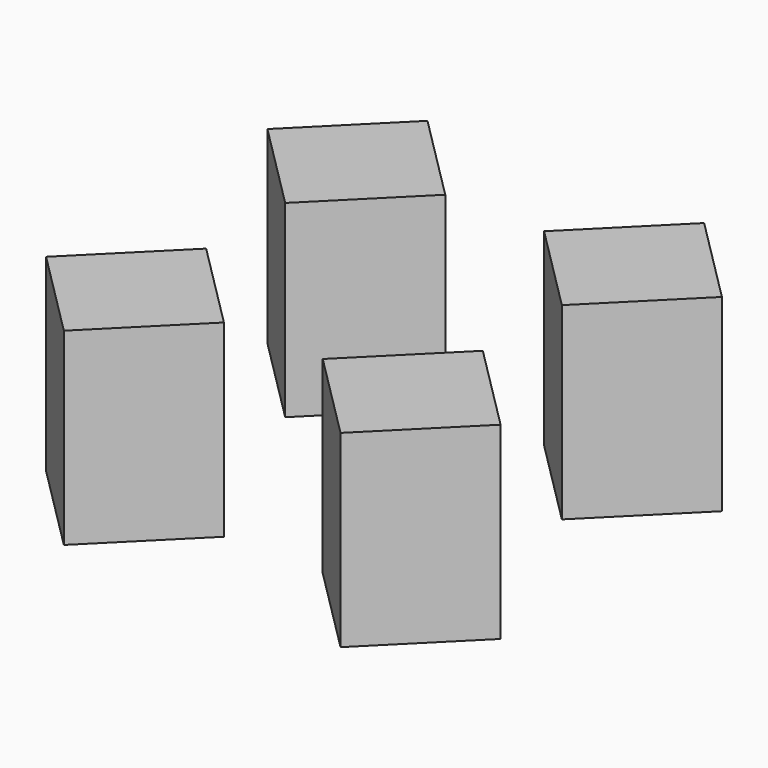
from build123d import *

# Parameters (mm, degrees)
BOX057_W               = 10
BOX057_H               = 10
BOX057_DEPTH           = 15
BOX057_PLACEMENT_ANGLE = 45
BOX056_W               = 10
BOX056_H               = 10
BOX056_DEPTH           = 15
BOX056_PLACEMENT_ANGLE = 45
BOX055_W               = 10
BOX055_H               = 10
BOX055_DEPTH           = 15
BOX055_PLACEMENT_ANGLE = 45
BOX054_W               = 10
BOX054_H               = 10
BOX054_DEPTH           = 15
BOX054_PLACEMENT_ANGLE = 45


with BuildPart() as cube057:
    # Box057 → Box057 (new body)
    with BuildSketch(Plane.XY):
        with Locations((5, 5)):
            Rectangle(BOX057_W, BOX057_H)
    extrude(amount=BOX057_DEPTH)


with BuildPart() as cube057_1:
    # Box057 placement: moved
    add(cube057.part.moved(Location((9, 24, -3))).rotate(Axis((9, 24, -3), (0, 0, 1)), BOX057_PLACEMENT_ANGLE))


with BuildPart() as cube056:
    # Box056 → Box056 (new body)
    with BuildSketch(Plane.XY):
        with Locations((5, 5)):
            Rectangle(BOX056_W, BOX056_H)
    extrude(amount=BOX056_DEPTH)


with BuildPart() as cube056_1:
    # Box056 placement: moved
    add(cube056.part.moved(Location((31, 2, -3))).rotate(Axis((31, 2, -3), (0, 0, 1)), BOX056_PLACEMENT_ANGLE))


with BuildPart() as cube055:
    # Box055 → Box055 (new body)
    with BuildSketch(Plane.XY):
        with Locations((5, 5)):
            Rectangle(BOX055_W, BOX055_H)
    extrude(amount=BOX055_DEPTH)


with BuildPart() as cube055_1:
    # Box055 placement: moved
    add(cube055.part.moved(Location((31, 24, -3))).rotate(Axis((31, 24, -3), (0, 0, 1)), BOX055_PLACEMENT_ANGLE))


with BuildPart() as fusion017:
    # Box054 → Box054 (new body)
    with BuildSketch(Plane.XY):
        with Locations((5, 5)):
            Rectangle(BOX054_W, BOX054_H)
    extrude(amount=BOX054_DEPTH)


with BuildPart() as fusion017_1:
    # Box054 placement: moved
    add(fusion017.part.moved(Location((9, 2, -3))).rotate(Axis((9, 2, -3), (0, 0, 1)), BOX054_PLACEMENT_ANGLE))

    # Fusion017: union Cube057, Cube056, Cube055
    add(cube057_1.part)
    add(cube056_1.part)
    add(cube055_1.part)


solid = fusion017_1.part
